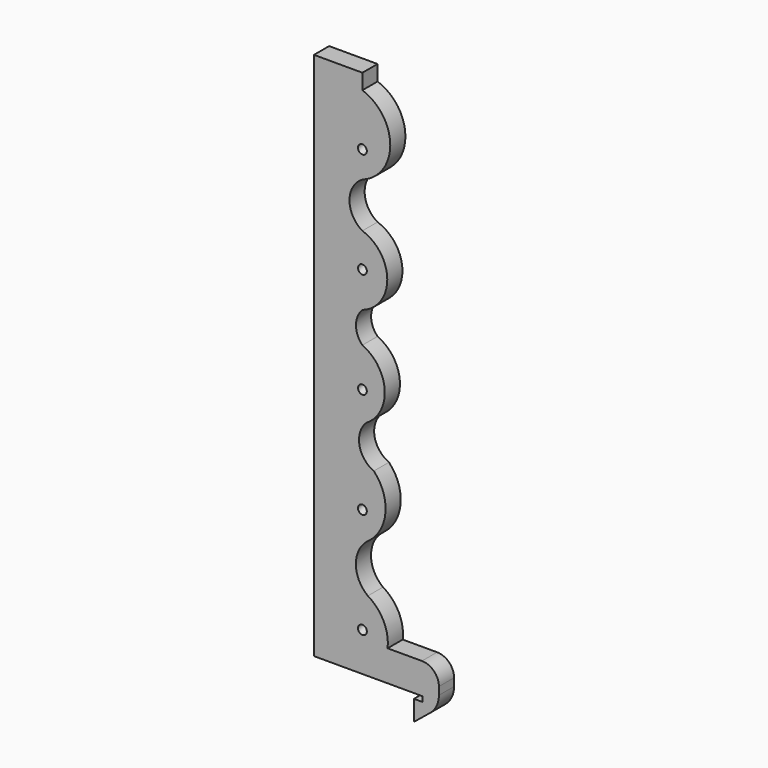
from build123d import *

# Parameters (mm, degrees)
F14_DEPTH = 5.59188
F7_R      = 1.3
F8_R      = 1.3
F9_R      = 1.3
F13_R     = 1.3
F12_R     = 1.3
F15_DEPTH = 12.5
F16_R     = 5
F17_R     = 7


with BuildPart() as f14:
    # F0 (on Front) → F14 (new body)
    with BuildSketch(Plane.XZ):
        with BuildLine():
            Line((-4.617294, 124.619789), (-18.917294, 124.619789))
            Line((-18.917294, 124.619789), (-18.917294, -31.580211))
            Line((-18.917294, -31.580211), (13.082706, -31.580211))
            Line((13.082706, -31.580211), (13.082706, -33.080211))
            Line((13.082706, -33.080211), (10.582706, -33.080211))
            Line((10.582706, -33.080211), (10.582706, -39.080211))
            Line((10.582706, -39.080211), (17.948166, -33.080211))
            Line((17.948166, -33.080211), (17.948166, -22.480211))
            Line((17.948166, -22.480211), (2.810464, -22.480211))
            ThreePointArc((2.810464, -22.480211), (1.628401, -15.759373), (-3.01593, -10.75966))
            ThreePointArc((-3.01593, -10.75966), (-6.551238, -3.432025), (-2.676977, 3.722187))
            ThreePointArc((-2.676977, 3.722187), (2.187998, 12.669063), (-1.251371, 22.254746))
            ThreePointArc((-1.251371, 22.254746), (-5.501031, 27.557072), (-3.487522, 34.047068))
            ThreePointArc((-3.487522, 34.047068), (1.962143, 44.29054), (-4.617294, 53.84766))
            ThreePointArc((-4.617294, 53.84766), (-6.525038, 58.429114), (-4.617294, 63.010567))
            ThreePointArc((-4.617294, 63.010567), (2.72151, 73.280403), (-4.617294, 83.550238))
            ThreePointArc((-4.617294, 83.550238), (-8.435523, 90.21175), (-4.617294, 96.873262))
            ThreePointArc((-4.617294, 96.873262), (3.598575, 108.475075), (-4.617294, 120.076888))
            Line((-4.617294, 120.076888), (-4.617294, 124.619789))
        make_face()
    extrude(amount=F14_DEPTH)

    # F7 (on face) + F8 (on face) + F9 (on face) + F13 (on face) + F12 (on face) → F15 (cut, symmetric)
    with BuildSketch(Plane(origin=(0, -4.19571, -0.989505), x_dir=(-1, 0, 0), z_dir=(0, 0.973299, 0.22954))):
        with Locations((4.617294, -18.278764)):
            Circle(F7_R)
    with BuildSketch(Plane(origin=(0, 2.77472, 0.654382), x_dir=(1, 0, 0), z_dir=(0, -0.973299, -0.22954))):
        with Locations((-4.617294, 12.088171)):
            Circle(F8_R)
    with BuildSketch(Plane(origin=(0, 9.745151, 2.298269), x_dir=(1, 0, 0), z_dir=(0, -0.973299, -0.22954))):
        with Locations((-4.617294, 42.455105)):
            Circle(F9_R)
    with BuildSketch(Plane(origin=(0, 23.686013, 5.586043), x_dir=(-1, 0, 0), z_dir=(0, 0.973299, 0.22954))):
        with Locations((4.617294, 103.188975)):
            Circle(F13_R)
    with BuildSketch(Plane(origin=(0, 16.715582, 3.942156), x_dir=(-1, 0, 0), z_dir=(0, 0.973299, 0.22954))):
        with Locations((4.617294, 72.82204)):
            Circle(F12_R)
    extrude(amount=F15_DEPTH, both=True, mode=Mode.SUBTRACT)

    # F16
    f16_edges = [f14.edges().sort_by_distance(p)[0] for p in [
        (17.948166, -2.79594, -22.480211),
    ]]
    fillet(f16_edges, radius=F16_R)

    # F17
    f17_edges = [f14.edges().sort_by_distance(p)[0] for p in [
        (17.948166, -2.79594, -33.080211),
    ]]
    fillet(f17_edges, radius=F17_R)


solid = f14.part
